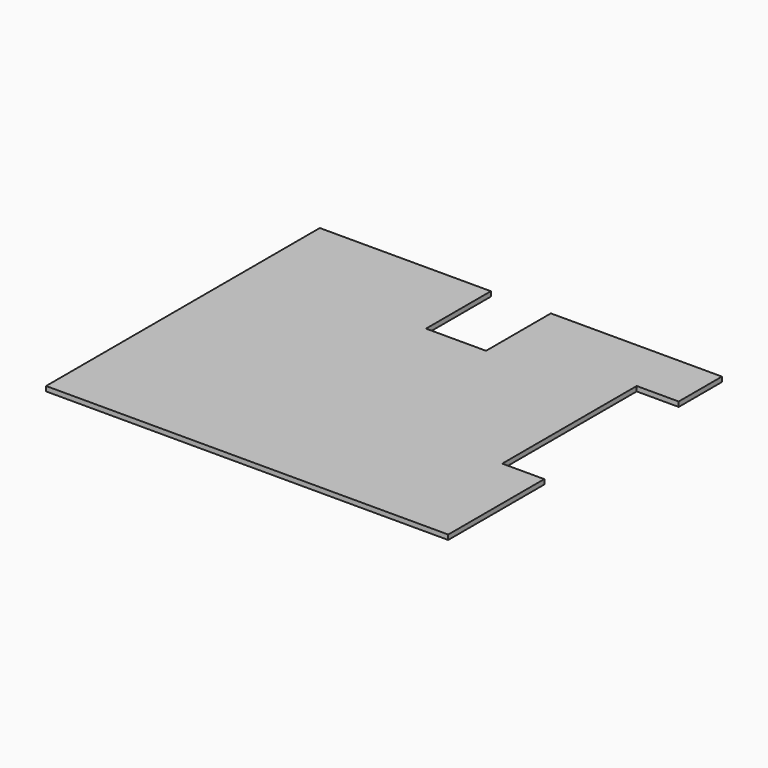
from build123d import *

# Parameters (mm, degrees)
BOX015001014_W     = 14
BOX015001014_H     = 56
BOX015001014_DEPTH = 1.6
BOX015001003_W     = 20
BOX015001003_H     = 30
BOX015001003_DEPTH = 1.6
BOX015001002_W     = 134
BOX015001002_H     = 114
BOX015001002_DEPTH = 1.6


with BuildPart() as cube015:
    # Box015001014 → Box015001014 (new body)
    with BuildSketch(Plane(origin=(128, 43, 11.5), x_dir=(1, 0, 0), z_dir=(0, 0, 1))):
        with Locations((7, 28)):
            Rectangle(BOX015001014_W, BOX015001014_H)
    extrude(amount=BOX015001014_DEPTH)


with BuildPart() as cube007:
    # Box015001003 → Box015001003 (new body)
    with BuildSketch(Plane(origin=(65, 90, 11.5), x_dir=(1, 0, 0), z_dir=(0, 0, 1))):
        with Locations((10, 15)):
            Rectangle(BOX015001003_W, BOX015001003_H)
    extrude(amount=BOX015001003_DEPTH)


with BuildPart() as cut004013:
    # Box015001002 → Box015001002 (new body)
    with BuildSketch(Plane(origin=(8, 3, 11.5), x_dir=(1, 0, 0), z_dir=(0, 0, 1))):
        with Locations((67, 57)):
            Rectangle(BOX015001002_W, BOX015001002_H)
    extrude(amount=BOX015001002_DEPTH)

    # Cut004006: cut Cube007
    add(cube007.part, mode=Mode.SUBTRACT)

    # Cut004013: cut Cube015
    add(cube015.part, mode=Mode.SUBTRACT)


solid = cut004013.part
